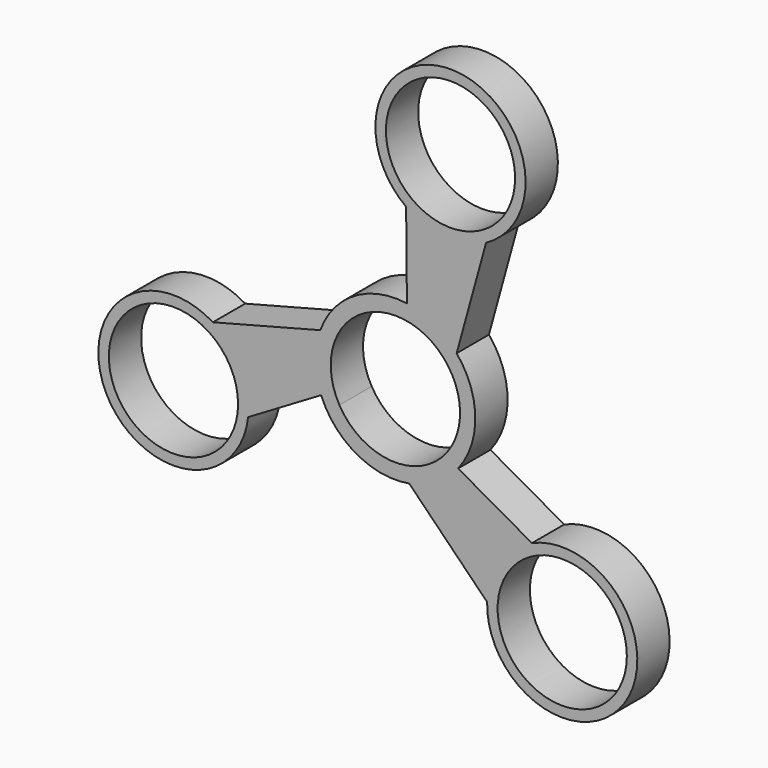
from build123d import *

# Parameters (mm, degrees)
F0_R     = 11.0998
F1_DEPTH = 6.9342


with BuildPart() as f1:
    # F0 (on Front) → F1 (new body)
    with BuildSketch(Plane.XZ):
        with BuildLine():
            ThreePointArc((15.766459, -27.104718), (39.365948, -34.682887), (23.459332, -15.673834))
            Line((23.459332, -15.673834), (10.779632, -8.509985))
            ThreePointArc((10.779632, -8.509985), (13.732407, 0.203224), (10.52309, 8.825241))
            Line((10.52309, 8.825241), (15.590145, 27.206513))
            ThreePointArc((15.590145, 27.206513), (10.353287, 51.433354), (1.844272, 28.153294))
            Line((1.844272, 28.153294), (1.980047, 13.590427))
            ThreePointArc((1.980047, 13.590427), (-7.042201, 11.791001), (-12.904428, 4.700643))
            Line((-12.904428, 4.700643), (-31.356604, -0.101795))
            ThreePointArc((-31.356604, -0.101795), (-49.719235, -16.750467), (-25.303604, -12.479461))
            Line((-25.303604, -12.479461), (-12.759679, -5.080443))
            ThreePointArc((-12.759679, -5.080443), (-6.690206, -11.994225), (2.381337, -13.525884))
            Line((2.381337, -13.525884), (15.766459, -27.104718))
        make_face()
        with Locations((-38.129316, -11.082696)):
            Circle(F0_R, mode=Mode.SUBTRACT)
        with Locations((28.662555, -27.479608)):
            Circle(F0_R, mode=Mode.SUBTRACT)
        with BuildLine():
            ThreePointArc((11.108705, 0.005141), (10.729336, -2.871999), (9.617158, -5.552469))
            ThreePointArc((9.617158, -5.552469), (0, -11.110083), (-9.617158, -5.552469))
            ThreePointArc((-9.617158, -5.552469), (-9.621614, 5.555041), (0, 11.104938))
            ThreePointArc((0, 11.104938), (7.8545, 7.857033), (11.108705, 0.005141))
        make_face(mode=Mode.SUBTRACT)
        with Locations((9.466761, 38.562305)):
            Circle(F0_R, mode=Mode.SUBTRACT)
    extrude(amount=F1_DEPTH)


solid = f1.part
